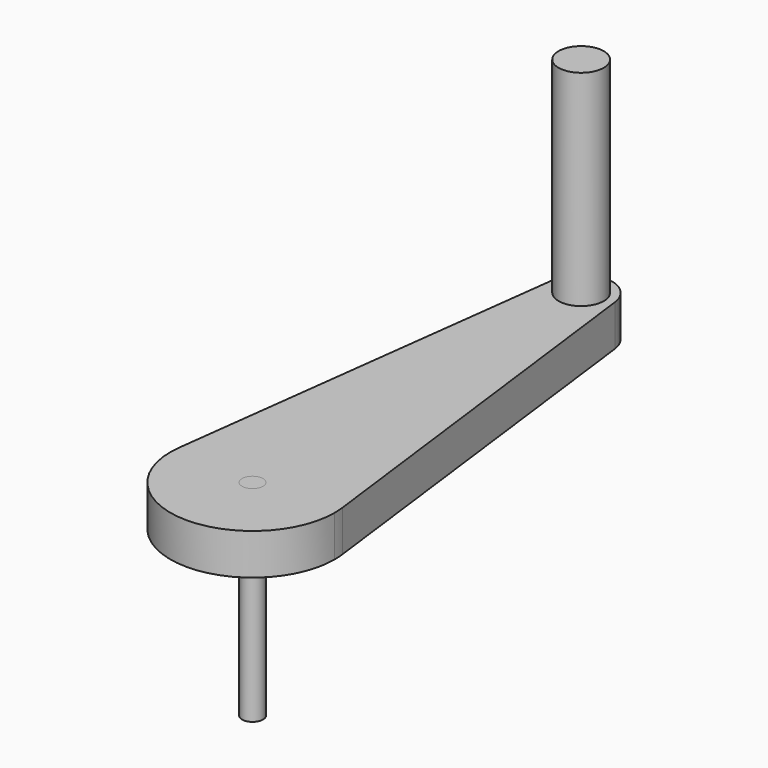
from build123d import *

# Parameters (mm, degrees)
F0_R     = 6.985
F1_DEPTH = 76.2
F0_R_2   = 3.2385
F2_DEPTH = 50.8
F3_DEPTH = 12.7
F4_DEPTH = 12.7


with BuildPart() as f1:
    # F0 (on Top) → F1 (new body)
    with BuildSketch(Plane.XY):
        with Locations((0, 127)):
            Circle(F0_R)
        with Locations((0, 127)):
            Circle(F0_R)
    extrude(amount=F1_DEPTH)


with BuildPart() as f2:
    # F0 (on Top) → F2 (new body)
    with BuildSketch(Plane.XY):
        Circle(F0_R_2)
    extrude(amount=-F2_DEPTH)

    # F3 (add): faces of the model
    f3_faces = [f2.faces().sort_by_distance(p)[0] for p in [
        (0, 0, 0),
        (0, 0, 0),
    ]]
    extrude(f3_faces, amount=F3_DEPTH)


with BuildPart() as f4:
    # F0 (on Top) → F4 (new body)
    with BuildSketch(Plane.XY):
        with BuildLine():
            ThreePointArc((-25.2007812379, 3.175), (-1.5906219786, -25.3501463846), (25.4, 0))
            ThreePointArc((25.4, 0), (25.3501463846, 1.5906219786), (25.2007812379, 3.175))
            ThreePointArc((25.2007812379, 3.175), (0, 25.4), (-25.2007812379, 3.175))
        make_face()
        Circle(F0_R_2, mode=Mode.SUBTRACT)
        with BuildLine():
            ThreePointArc((-25.2007812379, 3.175), (0, 25.4), (25.2007812379, 3.175))
            Line((25.2007812379, 3.175), (9.4502929642, 128.190625))
            ThreePointArc((9.4502929642, 128.190625), (9.5063048942, 127.596483242), (9.525, 127))
            ThreePointArc((9.525, 127), (-0.596483242, 117.4936951058), (-9.4502929642, 128.190625))
            Line((-9.4502929642, 128.190625), (-25.2007812379, 3.175))
        make_face()
        with BuildLine():
            ThreePointArc((9.525, 127), (9.5063048942, 127.596483242), (9.4502929642, 128.190625))
            ThreePointArc((9.4502929642, 128.190625), (0, 136.525), (-9.4502929642, 128.190625))
            ThreePointArc((-9.4502929642, 128.190625), (-0.596483242, 117.4936951058), (9.525, 127))
        make_face()
        with Locations((0, 127)):
            Circle(F0_R, mode=Mode.SUBTRACT)
    extrude(amount=F4_DEPTH)


solid = Compound([f1.part, f2.part, f4.part])
